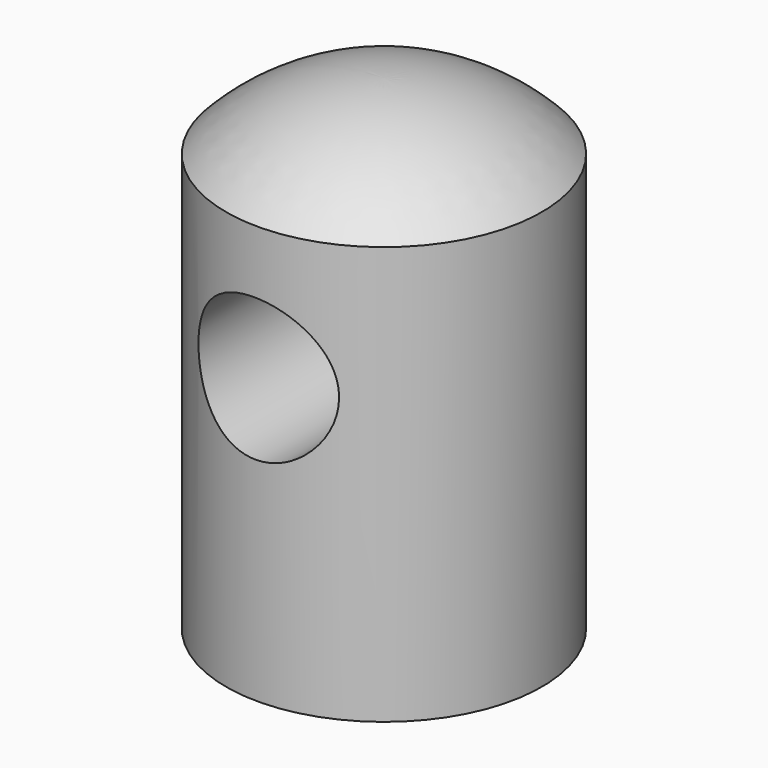
from build123d import *

# Parameters (mm, degrees)
F2_R      = 9.751517
F3_DEPTH  = 21.591
F3_FACE_R = 9.751517
F4_DEPTH  = 21.591


with BuildPart() as f1:
    # F0 (on Front) → F1 (revolve)
    with BuildSketch(Plane.XZ):
        with BuildLine():
            Line((-10.593969, 33.663088), (-10.593969, -23.486912))
            Line((-10.593969, -23.486912), (10.996031, -23.486912))
            Line((10.996031, -23.486912), (10.996031, 42.807088))
            ThreePointArc((10.996031, 42.807088), (-0.727246, 40.426852), (-10.593969, 33.663088))
        make_face()
    revolve(axis=Axis((10.996031, 0, 9.660088), (0, 0, -1)))

    # F2 (on Front) → F3 (cut, through all)
    with BuildSketch(Plane.XZ):
        with Locations((10.654598, 15.278292)):
            Circle(F2_R)
    extrude(amount=-F3_DEPTH, mode=Mode.SUBTRACT)

    # F3_face (on face) → F4 (cut, through all)
    with BuildSketch(Plane(origin=(10.654598, 0, 15.278292), x_dir=(1, 0, 0), z_dir=(0, 1, 0))):
        Circle(F3_FACE_R)
    extrude(amount=-F4_DEPTH, mode=Mode.SUBTRACT)


solid = f1.part
